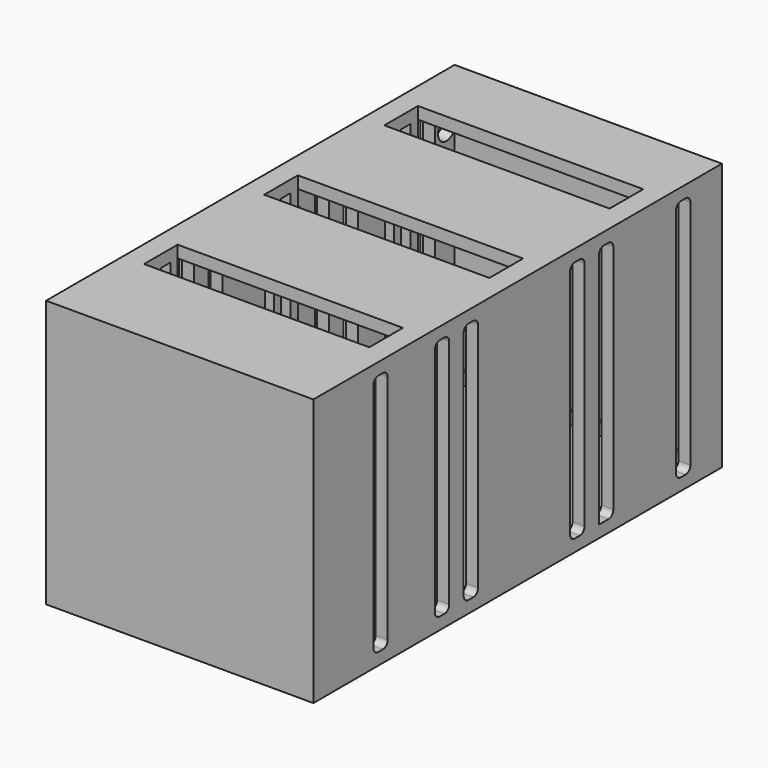
from build123d import *

# Parameters (mm, degrees)
F1_W      = 44.5
F1_H      = 44.5
F2_DEPTH  = 85
F0_W      = 40.5
F0_H      = 40.5
F3_DEPTH  = 85
F5_W      = 40.5
F5_H      = 79
F6_DEPTH  = 22.251
F4_W      = 1.5
F4_H      = 40.5
F7_DEPTH  = 20.25
F8_W      = 37.5
F8_H      = 40.5
F9_DEPTH  = 85.001
F10_W     = 44.5
F10_H     = 44.5
F11_DEPTH = 2.5
F12_W     = 37.5
F12_H     = 7
F13_DEPTH = 23.25
F14_W     = 40.5
F14_H     = 40.5
F15_DEPTH = 3
F16_R     = 1.75
F17_DEPTH = 3
F18_W     = 3
F18_H     = 40.5
F19_DEPTH = 46.5
F20_R     = 1
F21_W     = 2
F21_H     = 40.5
F22_DEPTH = 0.3
F23_W     = 2
F23_H     = 40.5
F24_DEPTH = 0.3
F25_W     = 2
F25_H     = 40.5
F26_DEPTH = 0.3


with BuildPart() as f2:
    # F1 (on Front) → F2 (new body)
    with BuildSketch(Plane.XZ):
        Rectangle(F1_W, F1_H)
    extrude(amount=F2_DEPTH)

    # F0 (on Front) → F3 (cut, through all)
    with BuildSketch(Plane.XZ):
        Rectangle(F0_W, F0_H)
    extrude(amount=F3_DEPTH, mode=Mode.SUBTRACT)

    # F5 (on Top) → F6 (cut, through all)
    with BuildSketch(Plane.XY):
        with Locations((0, -42.5)):
            Rectangle(F5_W, F5_H)
    extrude(amount=-F6_DEPTH, mode=Mode.SUBTRACT)

    # F4 (on Right) → F7 (join, symmetric)
    with BuildSketch(Plane.YZ):
        with Locations((-12.75, 0)):
            Rectangle(F4_W, F4_H)
        with Locations((-16.25, 0)):
            Rectangle(F4_W, F4_H)
        with Locations((-37.75, 0)):
            Rectangle(F4_W, F4_H)
        with Locations((-41.25, 0)):
            Rectangle(F4_W, F4_H)
        with Locations((-62.75, 0)):
            Rectangle(F4_W, F4_H)
        with Locations((-66.25, 0)):
            Rectangle(F4_W, F4_H)
    extrude(amount=F7_DEPTH, both=True)

    # F8 (on Front) → F9 (cut, through all)
    with BuildSketch(Plane.XZ):
        Rectangle(F8_W, F8_H)
    extrude(amount=F9_DEPTH, mode=Mode.SUBTRACT)

    # F10 (on Front) → F11 (join)
    with BuildSketch(Plane.XZ):
        Rectangle(F10_W, F10_H)
    extrude(amount=F11_DEPTH)

    # F12 (on Top) → F13 (cut)
    with BuildSketch(Plane.XY):
        with Locations((0, -65.5)):
            Rectangle(F12_W, F12_H)
        with Locations((0, -40.5)):
            Rectangle(F12_W, F12_H)
        with Locations((0, -15.5)):
            Rectangle(F12_W, F12_H)
    extrude(amount=F13_DEPTH, mode=Mode.SUBTRACT)

    # F14 (on face) → F15 (join)
    with BuildSketch(Plane.XZ.offset(85)):
        Rectangle(F14_W, F14_H)
    extrude(amount=-F15_DEPTH)

    # F16 (on face) → F17 (cut)
    with BuildSketch(Plane(origin=(-22.25, 0, 0), x_dir=(0, -1, 0), z_dir=(-1, 0, 0))):
        with Locations((4.2, 15.192293)):
            Circle(F16_R)
        with Locations((4.2, -16.807707)):
            Circle(F16_R)
        with Locations((36.2, -16.807707)):
            Circle(F16_R)
        with Locations((36.2, 15.192293)):
            Circle(F16_R)
        with Locations((44.7, 15.192293)):
            Circle(F16_R)
        with Locations((44.7, -16.807707)):
            Circle(F16_R)
        with Locations((76.7, -16.807707)):
            Circle(F16_R)
        with Locations((76.7, 15.192293)):
            Circle(F16_R)
    extrude(amount=-F17_DEPTH, mode=Mode.SUBTRACT)

    # F18 (on face) → F19 (cut)
    with BuildSketch(Plane(origin=(-22.25, 0, 0), x_dir=(0, -1, 0), z_dir=(-1, 0, 0))):
        with Locations((71.032956, 0)):
            Rectangle(F18_W, F18_H)
        with Locations((58.23973, 0)):
            Rectangle(F18_W, F18_H)
        with Locations((52.23973, 0)):
            Rectangle(F18_W, F18_H)
        with Locations((30.095129, 0)):
            Rectangle(F18_W, F18_H)
        with Locations((24.095129, 0)):
            Rectangle(F18_W, F18_H)
        with Locations((8.056109, 0)):
            Rectangle(F18_W, F18_H)
    extrude(amount=-F19_DEPTH, mode=Mode.SUBTRACT)

    # F20
    f20_edges = [f2.edges().sort_by_distance(p)[0] for p in [
        (21.25, -50.73973, -20.25),
        (-21.25, -50.73973, -20.25),
        (21.25, -56.73973, -20.25),
        (-21.25, -56.73973, -20.25),
        (21.25, -22.595129, -20.25),
        (-21.25, -22.595129, -20.25),
        (21.25, -28.595129, -20.25),
        (-21.25, -28.595129, -20.25),
        (21.25, -69.532956, -20.25),
        (-21.25, -69.532956, -20.25),
        (21.25, -6.556109, -20.25),
        (-21.25, -6.556109, -20.25),
        (21.25, -72.532956, -20.25),
        (-21.25, -72.532956, -20.25),
        (21.25, -59.73973, -20.25),
        (-21.25, -59.73973, -20.25),
        (21.25, -53.73973, -20.25),
        (-21.25, -53.73973, -20.25),
        (21.25, -31.595129, -20.25),
        (-21.25, -31.595129, -20.25),
        (21.25, -9.556109, -20.25),
        (-21.25, -9.556109, -20.25),
        (21.25, -72.532956, 20.25),
        (-21.25, -72.532956, 20.25),
        (21.25, -69.532956, 20.25),
        (-21.25, -69.532956, 20.25),
        (21.25, -56.73973, 20.25),
        (-21.25, -56.73973, 20.25),
        (21.25, -50.73973, 20.25),
        (-21.25, -50.73973, 20.25),
        (21.25, -28.595129, 20.25),
        (-21.25, -28.595129, 20.25),
        (21.25, -22.595129, 20.25),
        (-21.25, -22.595129, 20.25),
        (21.25, -6.556109, 20.25),
        (-21.25, -6.556109, 20.25),
        (21.25, -59.73973, 20.25),
        (-21.25, -59.73973, 20.25),
        (21.25, -53.73973, 20.25),
        (-21.25, -53.73973, 20.25),
        (21.25, -31.595129, 20.25),
        (-21.25, -31.595129, 20.25),
        (21.25, -25.595129, 20.25),
        (-21.25, -25.595129, 20.25),
        (21.25, -9.556109, 20.25),
        (-21.25, -9.556109, 20.25),
    ]]
    fillet(f20_edges, radius=F20_R)

    # F21 (on face) → F22 (cut)
    with BuildSketch(Plane.YZ.offset(-20.25)):
        with Locations((-64.5, 0)):
            Rectangle(F21_W, F21_H)
    extrude(amount=-F22_DEPTH, mode=Mode.SUBTRACT)

    # F23 (on face) → F24 (cut)
    with BuildSketch(Plane.YZ.offset(-20.25)):
        with Locations((-39.5, 0)):
            Rectangle(F23_W, F23_H)
        with Locations((-14.5, 0)):
            Rectangle(F23_W, F23_H)
    extrude(amount=-F24_DEPTH, mode=Mode.SUBTRACT)

    # F25 (on face) → F26 (cut)
    with BuildSketch(Plane(origin=(20.25, 0, 0), x_dir=(0, -1, 0), z_dir=(-1, 0, 0))):
        with Locations((64.5, 0)):
            Rectangle(F25_W, F25_H)
        with Locations((39.5, 0)):
            Rectangle(F25_W, F25_H)
        with Locations((14.5, 0)):
            Rectangle(F25_W, F25_H)
    extrude(amount=-F26_DEPTH, mode=Mode.SUBTRACT)


solid = f2.part
